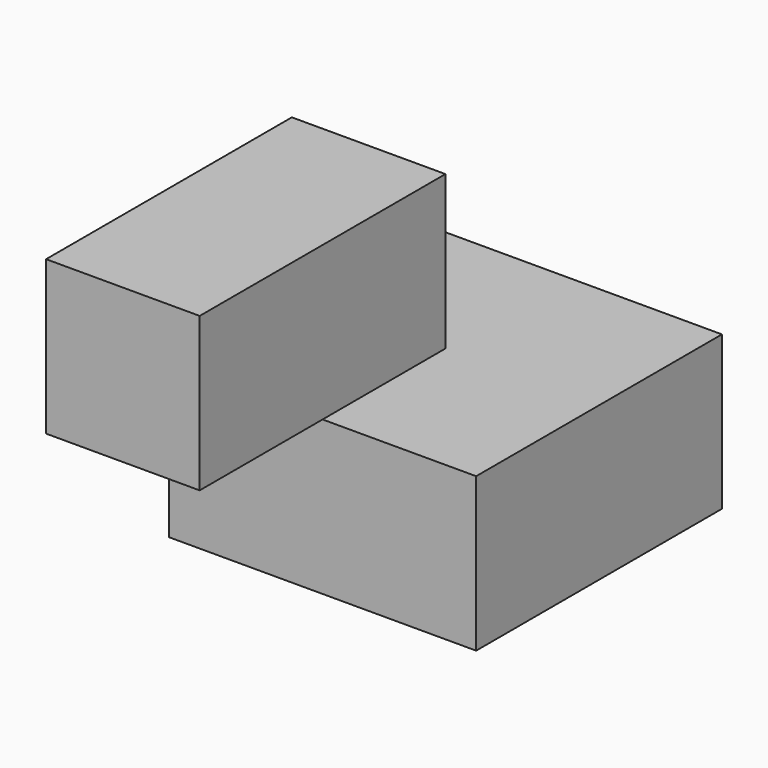
from build123d import *

# Parameters (mm, degrees)
F0_W     = 19.051107
F0_H     = 19.05
F0_W_2   = 19.05
F1_DEPTH = 19.05
F2_DEPTH = 38.1
F3_W     = 19.05
F3_H     = 19.05
F4_DEPTH = 19.05


with BuildPart() as f1:
    # F0 (on Top) → F1 (new body)
    with BuildSketch(Plane.XY):
        with Locations((27.630415, 2.113701)):
            Rectangle(F0_W, F0_H)
        with Locations((8.579862, 2.113701)):
            Rectangle(F0_W_2, F0_H)
        with Locations((27.630415, -16.936299)):
            Rectangle(F0_W, F0_H)
    extrude(amount=F1_DEPTH)

    # F0 (on Top) → F2 (join)
    with BuildSketch(Plane.XY):
        with Locations((8.579862, -16.936299)):
            Rectangle(F0_W_2, F0_H)
    extrude(amount=F2_DEPTH)

    # F3 (on face) → F4 (join)
    with BuildSketch(Plane.XZ.offset(26.461299)):
        with Locations((8.579862, 28.575)):
            Rectangle(F3_W, F3_H)
    extrude(amount=F4_DEPTH)


solid = f1.part
